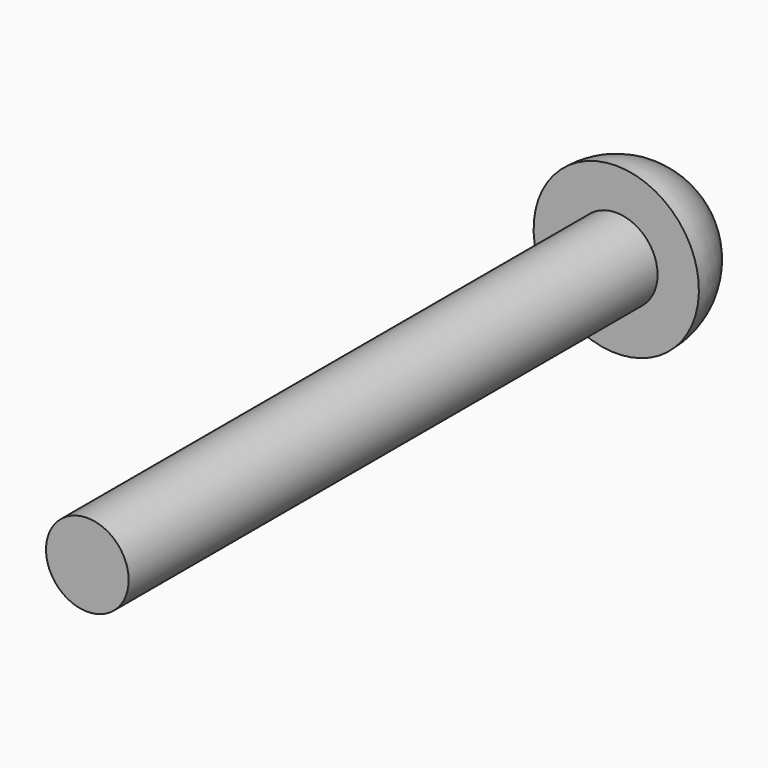
from build123d import *

# Parameters (mm, degrees)
F0_R     = 6.35
F1_DEPTH = 101.6


with BuildPart() as f1:
    # F0 (on Front) → F1 (new body)
    with BuildSketch(Plane.XZ):
        Circle(F0_R)
    extrude(amount=F1_DEPTH)

    # F2 (on Right) → F3 (revolve)
    with BuildSketch(Plane.YZ):
        with BuildLine():
            Line((0, 0), (12.7, 0))
            ThreePointArc((12.7, 0), (8.980256, 8.980256), (0, 12.7))
            Line((0, 12.7), (0, 0))
        make_face()
    revolve(axis=Axis((0, 6.35, 0), (0, -1, 0)))


solid = f1.part
